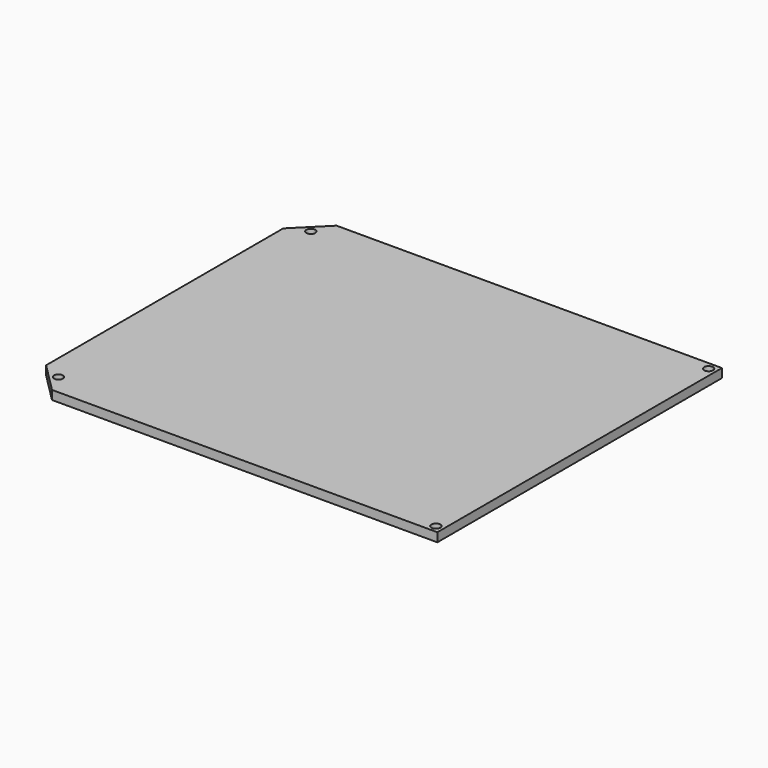
from build123d import *

# Parameters (mm, degrees)
F1_DEPTH = 3
F2_R     = 1.5
F3_DEPTH = 4


with BuildPart() as f1:
    # F0 (on Top) → F1 (new body)
    with BuildSketch(Plane.XY):
        Polygon((63.909113, -72.075712), (63.909113, 47.924288), (-66.090887, 47.924288), (-76.090887, 37.924288), (-76.090887, -62.075712), (-66.090887, -72.075712), align=None)
    extrude(amount=F1_DEPTH)

    # F2 (on face) → F3 (cut)
    with BuildSketch(Plane.XY.offset(3)):
        with Locations((61.409113, 45.424288)):
            Circle(F2_R)
        with Locations((61.409113, -69.575712)):
            Circle(F2_R)
        with Locations((-69.344954, 41.134687)):
            Circle(F2_R)
        with Locations((-69.376129, -65.254937)):
            Circle(F2_R)
    extrude(amount=-F3_DEPTH, mode=Mode.SUBTRACT)


solid = f1.part
